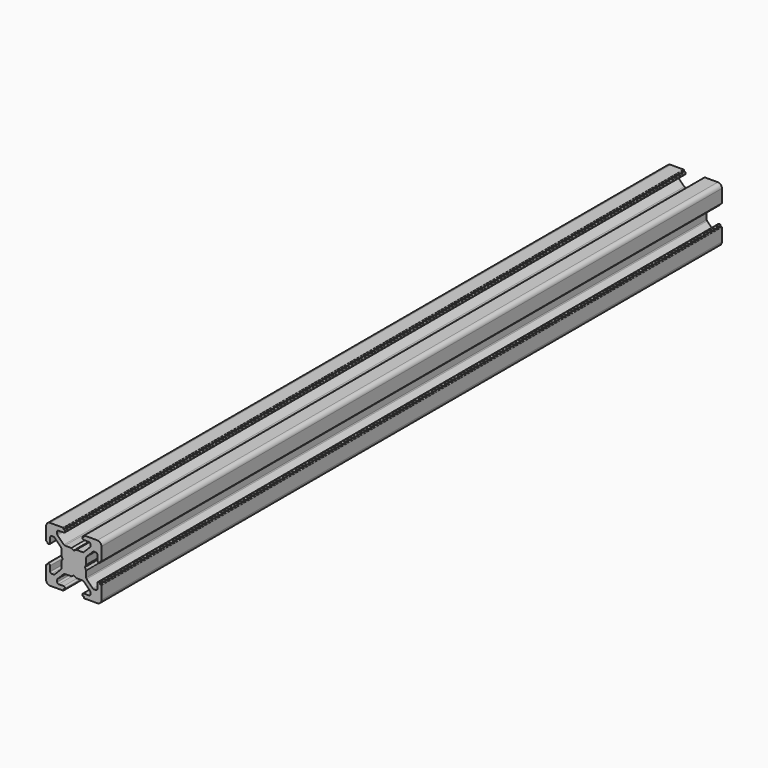
from build123d import *

# Parameters (mm, degrees)
PAD006_DEPTH    = 280
POCKET018_DEPTH = 280.001


with BuildPart() as pad006:
    # Sketch013 → Pad006 (new body)
    with BuildSketch(Plane(origin=(0, 0, -1.5), x_dir=(0, 0, -1), z_dir=(0, 1, 0))):
        with BuildLine():
            Line((0, 20), (4.65, 20))
            ThreePointArc((4.85, 19.8), (4.791421, 19.941421), (4.65, 20))
            Line((4.85, 19.8), (4.85, 19.5))
            Line((4.85, 19.5), (5.2, 19.5))
            ThreePointArc((5.4, 19.3), (5.341421, 19.441421), (5.2, 19.5))
            Line((5.4, 19.3), (5.4, 19))
            ThreePointArc((4.9, 18.5), (5.253553, 18.646446), (5.4, 19))
            Line((4.9, 18.5), (2.999999, 18.5))
            ThreePointArc((2.999999, 18.5), (2.646446, 18.353553), (2.499999, 18))
            Line((2.499999, 18), (2.499999, 17.267767))
            ThreePointArc((2.499999, 17.267767), (2.53806, 17.076425), (2.646446, 16.914213))
            Line((2.646446, 16.914213), (4.914213, 14.646447))
            ThreePointArc((4.914213, 14.646447), (5.076424, 14.53806), (5.267766, 14.5))
            Line((5.267766, 14.5), (7.54641, 14.5))
            ThreePointArc((7.64641, 14.473205), (7.598173, 14.493185), (7.54641, 14.5))
            Line((7.64641, 14.473205), (8.4, 14.03812))
            ThreePointArc((8.4, 14.03812), (8.5, 14.011325), (8.6, 14.03812))
            Line((8.6, 14.03812), (9.35359, 14.473205))
            ThreePointArc((9.45359, 14.5), (9.401827, 14.493185), (9.35359, 14.473205))
            Line((9.45359, 14.5), (11.732234, 14.5))
            ThreePointArc((11.732234, 14.5), (11.923576, 14.53806), (12.085787, 14.646447))
            Line((12.085787, 14.646447), (14.353554, 16.914213))
            ThreePointArc((14.353554, 16.914213), (14.46194, 17.076425), (14.500001, 17.267767))
            Line((14.500001, 17.267767), (14.500001, 18))
            ThreePointArc((14.500001, 18), (14.353554, 18.353553), (14.000001, 18.5))
            Line((14.000001, 18.5), (12.1, 18.5))
            ThreePointArc((11.6, 19), (11.746447, 18.646446), (12.1, 18.5))
            Line((11.6, 19), (11.6, 19.3))
            ThreePointArc((11.8, 19.5), (11.658579, 19.441421), (11.6, 19.3))
            Line((11.8, 19.5), (12.15, 19.5))
            Line((12.15, 19.5), (12.15, 19.8))
            ThreePointArc((12.35, 20), (12.208579, 19.941421), (12.15, 19.8))
            Line((12.35, 20), (17, 20))
            ThreePointArc((18.5, 18.5), (18.06066, 19.56066), (17, 20))
            Line((18.5, 18.5), (18.5, 13.85))
            ThreePointArc((18.3, 13.65), (18.441421, 13.708578), (18.5, 13.85))
            Line((18.3, 13.65), (18, 13.65))
            Line((18, 13.65), (18, 13.3))
            ThreePointArc((17.8, 13.1), (17.941421, 13.158579), (18, 13.3))
            Line((17.8, 13.1), (17.5, 13.1))
            ThreePointArc((17, 13.6), (17.146446, 13.246447), (17.5, 13.1))
            Line((17, 13.6), (17, 15.5))
            ThreePointArc((17, 15.5), (16.853553, 15.853553), (16.5, 16))
            Line((16.5, 16), (15.767767, 16))
            ThreePointArc((15.767767, 16), (15.576425, 15.961939), (15.414213, 15.853553))
            Line((15.414213, 15.853553), (13.146446, 13.585786))
            ThreePointArc((13.146446, 13.585786), (13.03806, 13.423574), (13, 13.232233))
            Line((13, 13.232233), (13, 10.953589))
            ThreePointArc((12.973205, 10.853589), (12.993185, 10.901825), (13, 10.953589))
            Line((12.973205, 10.853589), (12.53812, 10.1))
            ThreePointArc((12.53812, 10.1), (12.511325, 10), (12.53812, 9.9))
            Line((12.53812, 9.9), (12.973205, 9.146411))
            ThreePointArc((13, 9.046411), (12.993185, 9.098175), (12.973205, 9.146411))
            Line((13, 9.046411), (13, 6.767767))
            ThreePointArc((13, 6.767767), (13.03806, 6.576426), (13.146446, 6.414214))
            Line((13.146446, 6.414214), (15.414213, 4.146447))
            ThreePointArc((15.414213, 4.146447), (15.576425, 4.038061), (15.767767, 4))
            Line((15.767767, 4), (16.5, 4))
            ThreePointArc((16.5, 4), (16.853553, 4.146447), (17, 4.5))
            Line((17, 4.5), (17, 6.4))
            ThreePointArc((17.5, 6.9), (17.146446, 6.753553), (17, 6.4))
            Line((17.5, 6.9), (17.8, 6.9))
            ThreePointArc((18, 6.7), (17.941421, 6.841421), (17.8, 6.9))
            Line((18, 6.7), (18, 6.35))
            Line((18, 6.35), (18.3, 6.35))
            ThreePointArc((18.5, 6.15), (18.441421, 6.291422), (18.3, 6.35))
            Line((18.5, 6.15), (18.5, 1.5))
            ThreePointArc((17, 0), (18.06066, 0.43934), (18.5, 1.5))
            Line((17, 0), (12.35, 0))
            ThreePointArc((12.15, 0.2), (12.208579, 0.058579), (12.35, 0))
            Line((12.15, 0.2), (12.15, 0.5))
            Line((12.15, 0.5), (11.8, 0.5))
            ThreePointArc((11.6, 0.7), (11.658579, 0.558579), (11.8, 0.5))
            Line((11.6, 0.7), (11.6, 1))
            ThreePointArc((12.1, 1.5), (11.746447, 1.353554), (11.6, 1))
            Line((12.1, 1.5), (14.000001, 1.5))
            ThreePointArc((14.000001, 1.5), (14.353554, 1.646447), (14.500001, 2))
            Line((14.500001, 2), (14.500001, 2.732233))
            ThreePointArc((14.500001, 2.732233), (14.46194, 2.923575), (14.353554, 3.085787))
            Line((14.353554, 3.085787), (12.085787, 5.353553))
            ThreePointArc((12.085787, 5.353553), (11.923576, 5.46194), (11.732234, 5.5))
            Line((11.732234, 5.5), (9.45359, 5.5))
            ThreePointArc((9.35359, 5.526795), (9.401827, 5.506815), (9.45359, 5.5))
            Line((9.35359, 5.526795), (8.6, 5.96188))
            ThreePointArc((8.6, 5.96188), (8.5, 5.988675), (8.4, 5.96188))
            Line((8.4, 5.96188), (7.64641, 5.526795))
            ThreePointArc((7.54641, 5.5), (7.598173, 5.506815), (7.64641, 5.526795))
            Line((7.54641, 5.5), (5.267766, 5.5))
            ThreePointArc((5.267766, 5.5), (5.076424, 5.46194), (4.914213, 5.353553))
            Line((4.914213, 5.353553), (2.646446, 3.085787))
            ThreePointArc((2.646446, 3.085787), (2.53806, 2.923575), (2.499999, 2.732233))
            Line((2.499999, 2.732233), (2.499999, 2))
            ThreePointArc((2.499999, 2), (2.646446, 1.646447), (2.999999, 1.5))
            Line((2.999999, 1.5), (4.9, 1.5))
            ThreePointArc((5.4, 1), (5.253553, 1.353554), (4.9, 1.5))
            Line((5.4, 1), (5.4, 0.7))
            ThreePointArc((5.2, 0.5), (5.341421, 0.558579), (5.4, 0.7))
            Line((5.2, 0.5), (4.85, 0.5))
            Line((4.85, 0.5), (4.85, 0.2))
            ThreePointArc((4.65, 0), (4.791421, 0.058579), (4.85, 0.2))
            Line((4.65, 0), (0, 0))
            ThreePointArc((-1.5, 1.5), (-1.06066, 0.43934), (0, 0))
            Line((-1.5, 1.5), (-1.5, 6.15))
            ThreePointArc((-1.3, 6.35), (-1.441421, 6.291422), (-1.5, 6.15))
            Line((-1.3, 6.35), (-1, 6.35))
            Line((-1, 6.35), (-1, 6.7))
            ThreePointArc((-0.8, 6.9), (-0.941421, 6.841421), (-1, 6.7))
            Line((-0.8, 6.9), (-0.5, 6.9))
            ThreePointArc((0, 6.4), (-0.146446, 6.753553), (-0.5, 6.9))
            Line((0, 6.4), (0, 4.5))
            ThreePointArc((0, 4.5), (0.146447, 4.146447), (0.5, 4))
            Line((0.5, 4), (1.232233, 4))
            ThreePointArc((1.232233, 4), (1.423575, 4.038061), (1.585787, 4.146447))
            Line((1.585787, 4.146447), (3.853554, 6.414214))
            ThreePointArc((3.853554, 6.414214), (3.96194, 6.576426), (4, 6.767767))
            Line((4, 6.767767), (4, 9.046411))
            ThreePointArc((4.026795, 9.146411), (4.006815, 9.098175), (4, 9.046411))
            Line((4.026795, 9.146411), (4.46188, 9.9))
            ThreePointArc((4.46188, 9.9), (4.488675, 10), (4.46188, 10.1))
            Line((4.46188, 10.1), (4.026795, 10.853589))
            ThreePointArc((4, 10.953589), (4.006815, 10.901825), (4.026795, 10.853589))
            Line((4, 10.953589), (4, 13.232233))
            ThreePointArc((4, 13.232233), (3.96194, 13.423574), (3.853554, 13.585786))
            Line((3.853554, 13.585786), (1.585787, 15.853553))
            ThreePointArc((1.585787, 15.853553), (1.423575, 15.961939), (1.232233, 16))
            Line((1.232233, 16), (0.5, 16))
            ThreePointArc((0.5, 16), (0.146447, 15.853553), (0, 15.5))
            Line((0, 15.5), (0, 13.6))
            ThreePointArc((-0.5, 13.1), (-0.146446, 13.246447), (0, 13.6))
            Line((-0.5, 13.1), (-0.8, 13.1))
            ThreePointArc((-1, 13.3), (-0.941421, 13.158579), (-0.8, 13.1))
            Line((-1, 13.3), (-1, 13.65))
            Line((-1, 13.65), (-1.3, 13.65))
            ThreePointArc((-1.5, 13.85), (-1.441421, 13.708578), (-1.3, 13.65))
            Line((-1.5, 13.85), (-1.5, 18.5))
            ThreePointArc((0, 20), (-1.06066, 19.56066), (-1.5, 18.5))
        make_face()
    extrude(amount=PAD006_DEPTH)


with BuildPart() as obj1:
    # Pocket018 base: copy of Pad006
    add(pad006.part)

    # Sketch014 → Pocket018 (cut, through all)
    with BuildSketch(Plane(origin=(0, 280, -1.5), x_dir=(0, 0, -1), z_dir=(0, 1, 0))):
        with BuildLine():
            ThreePointArc((6.586105, 12.989641), (5.988263, 12.50841), (5.507825, 11.909931))
            Line((6.054705, 11.258185), (5.507825, 11.909931))
            ThreePointArc((6.054705, 11.258185), (5.75, 10), (6.054705, 8.741815))
            Line((5.507825, 8.090069), (6.054705, 8.741815))
            ThreePointArc((5.507825, 8.090069), (5.988263, 7.49159), (6.586105, 7.010359))
            Line((7.241815, 7.554705), (6.586105, 7.010359))
            ThreePointArc((7.241815, 7.554705), (8.5, 7.25), (9.758185, 7.554705))
            Line((10.413895, 7.010359), (9.758185, 7.554705))
            ThreePointArc((10.413895, 7.010359), (11.011737, 7.49159), (11.492175, 8.090069))
            Line((10.945295, 8.741815), (11.492175, 8.090069))
            ThreePointArc((10.945295, 8.741815), (11.25, 10), (10.945295, 11.258185))
            Line((11.492175, 11.909931), (10.945295, 11.258185))
            ThreePointArc((11.492175, 11.909931), (11.011737, 12.50841), (10.413895, 12.989641))
            Line((9.758185, 12.445295), (10.413895, 12.989641))
            ThreePointArc((9.758185, 12.445295), (8.5, 12.75), (7.241815, 12.445295))
            Line((6.586105, 12.989641), (7.241815, 12.445295))
        make_face()
    extrude(amount=-POCKET018_DEPTH, mode=Mode.SUBTRACT)

    # Fusion008: union Pad006
    add(pad006.part)


with BuildPart() as obj1_1:
    # Fusion008 placement: moved
    add(obj1.part.moved(Location((-153, -156, -76))))


solid = obj1_1.part
